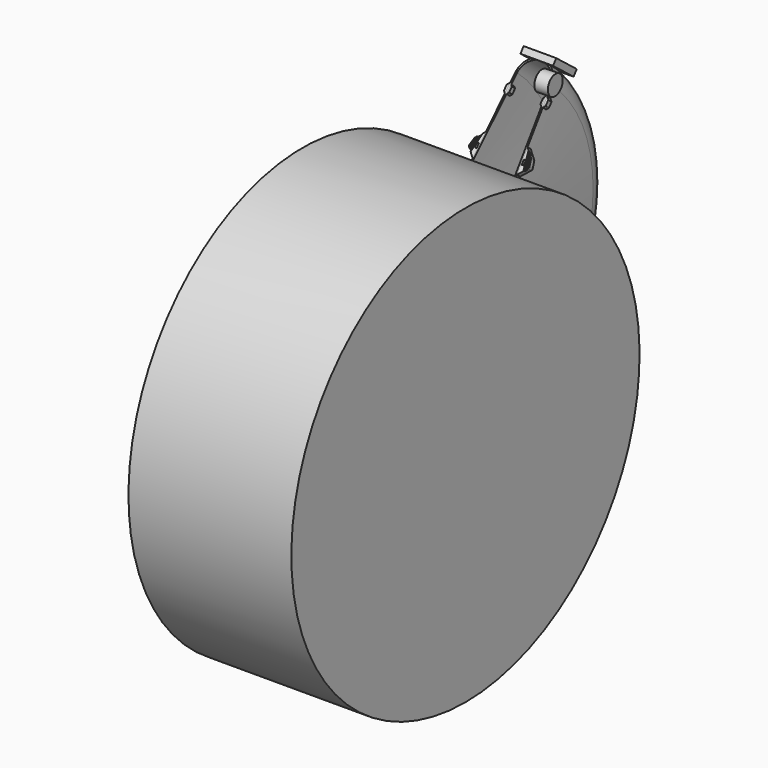
from build123d import *

# Parameters (mm, degrees)
REVOLUTION_ANGLE         = 100
FILLET_R                 = 8
PAD_DEPTH                = 8
POCKET_DEPTH             = 2
CHAMFER_SIZE             = 1
SKETCH005_W              = 3
SKETCH005_H              = 7
POCKET001_DEPTH          = 81.8615815525
POCKET002_DEPTH          = 78.501
FILLET001_R              = 3
FILLET002_R              = 1
CHAMFER001_SIZE          = 1
CHAMFER002_SIZE          = 1
CYLINDER001_R            = 334
CYLINDER001_DEPTH        = 250
CYLINDER_R               = 15
CYLINDER_DEPTH           = 20
CYLINDER_ROLL_ANGLE      = -87.7093899574
CYLINDER_PITCH_ANGLE     = -87.7093899574
CYLINDER_PLACEMENT_ANGLE = 90
BOX_W                    = 50
BOX_H                    = 50
BOX_DEPTH                = 10
BOX_PLACEMENT_ANGLE      = 322


with BuildPart() as body:
    # Sketch → Revolution (revolve, symmetric)
    with BuildSketch(Plane.XY) as revolution_sk:
        with BuildLine():
            ThreePointArc((27.5, 224.008535095), (0, 250), (-27.5, 224.008535095))
            Line((-34.5, 100), (-27.5, 224.008535095))
            Line((-34.5, 100), (-32.5, 100))
            Line((-32.5, 100), (-25.0114058168, 223.77))
            ThreePointArc((25.0114058168, 223.77), (0, 247.3138512729), (-25.0114058168, 223.77))
            Line((25.0114058168, 223.77), (32.5, 100))
            Line((32.5, 100), (34.5, 100))
            Line((34.5, 100), (27.5, 224.008535095))
        make_face()
    revolve(axis=Axis((0, 0, 0), (1, 0, 0)), revolution_arc=REVOLUTION_ANGLE / 2)
    revolve(revolution_sk.sketch, axis=Axis((0, 0, 0), (-1, 0, 0)), revolution_arc=REVOLUTION_ANGLE / 2)

    # Fillet
    fillet_edges = [body.edges().sort_by_distance(p)[0] for p in [
        (33.5, 64.278761, 76.604444),
        (-33.5, 64.278761, 76.604444),
    ]]
    fillet(fillet_edges, radius=FILLET_R)

    # Sketch002 (on Face5 of Fillet) → Pad (new body)
    with BuildSketch(Plane(origin=(0, 0, 0), x_dir=(1, 0, 0), z_dir=(0, -0.7660444431, 0.6427876097))):
        Polygon((-43.3941714588, 132.6975053664), (-46.5, 121.1063954509), (-33.2488189206, 107.8552143715), (-31, 145.091676825), align=None)
        Polygon((43.3941714588, 132.6975053664), (46.5, 121.1063954509), (33.2488189206, 107.8552143715), (31, 145.091676825), align=None)
        Polygon((28, 194.1063954509), (32, 198.1063954509), (32, 206.1063954509), (28, 210.1063954509), (24, 206.1063954509), (24, 198.1063954509), align=None)
        Polygon((-28, 194.1063954509), (-24, 198.1063954509), (-24, 206.1063954509), (-28, 210.1063954509), (-32, 206.1063954509), (-32, 198.1063954509), align=None)
    extrude(amount=-PAD_DEPTH)

    # Sketch003 (on Face47 of Pad) → Pocket (cut)
    with BuildSketch(Plane(origin=(0, 0, 0), x_dir=(1, 0, 0), z_dir=(0, -0.7660444431, 0.6427876097))):
        Polygon((35, 146.8697948557), (45, 97.88), (47.9393876913, 98.48), (37.9393876913, 147.4697948557), align=None)
        Polygon((-47.9393876913, 98.4800000001), (-45, 97.88), (-35, 146.8697948557), (-37.9393876913, 147.4697948558), align=None)
    extrude(amount=-POCKET_DEPTH, mode=Mode.SUBTRACT)

    # Chamfer
    chamfer_edges = [body.edges().sort_by_distance(p)[0] for p in [
        (42.094426, 81.707526, 97.375238),
        (38.89944, 82.126736, 97.874832),
        (-38.89944, 82.126736, 97.874832),
        (-42.094426, 81.707526, 97.375238),
    ]]
    chamfer(chamfer_edges, length=CHAMFER_SIZE)

    # Sketch005 (on Face6 of Chamfer) → Pocket001 (cut, through all)
    with BuildSketch(Plane(origin=(0, 6.128355545, -5.1423008775), x_dir=(-1, 0, 0), z_dir=(0, 0.7660444431, -0.6427876097))):
        with Locations((-36.0477122259, 125.0785244639)):
            Rectangle(SKETCH005_W, SKETCH005_H)
        with Locations((36.0477122259, 125.0785244639)):
            Rectangle(SKETCH005_W, SKETCH005_H)
    extrude(amount=-POCKET001_DEPTH, mode=Mode.SUBTRACT)

    # Sketch006 (on Face54 of Pocket001) → Pocket002 (cut, through all)
    with BuildSketch(Plane(origin=(-32, 0, 0), x_dir=(0, -1, 0), z_dir=(-1, 0, 0))):
        Polygon((-140.4082247347, 149.7281591854), (-136.6575524936, 145.0449489894), (-134.3159473956, 146.92028511), (-138.0666196367, 151.6034953059), align=None)
    extrude(amount=-POCKET002_DEPTH, mode=Mode.SUBTRACT)

    # Fillet001
    fillet001_edges = [body.edges().sort_by_distance(p)[0] for p in [
        (46.5, 80.909868, 90.201731),
        (43.394171, 88.36049, 99.081036),
        (-43.394171, 88.36049, 99.081036),
        (-46.5, 80.909868, 90.201731),
    ]]
    fillet(fillet001_edges, radius=FILLET001_R)

    # Fillet002
    fillet002_edges = [body.edges().sort_by_distance(p)[0] for p in [
        (32, 135.546815, 155.315508),
        (32, 130.404514, 149.187153),
        (-32, 130.404514, 149.187153),
        (-32, 135.546815, 155.315508),
    ]]
    fillet(fillet002_edges, radius=FILLET002_R)

    # Chamfer001
    chamfer001_edges = [body.edges().sort_by_distance(p)[0] for p in [
        (32.998397, 87.343701, 91.646379),
    ]]
    chamfer(chamfer001_edges, length=CHAMFER001_SIZE)

    # Chamfer002
    chamfer002_edges = [body.edges().sort_by_distance(p)[0] for p in [
        (-32.998397, 87.343701, 91.646379),
    ]]
    chamfer(chamfer002_edges, length=CHAMFER002_SIZE)


with BuildPart() as cylinder001:
    # Cylinder001 → Cylinder001 (new body)
    with BuildSketch(Plane(origin=(-100, -174, -159), x_dir=(0, 0, -1), z_dir=(1, 0, 0))):
        Circle(CYLINDER001_R)
    extrude(amount=CYLINDER001_DEPTH)


with BuildPart() as cylinder:
    # Cylinder → Cylinder (new body)
    with BuildSketch(Plane.XY):
        Circle(CYLINDER_R)
    extrude(amount=CYLINDER_DEPTH)


with BuildPart() as cylinder_1:
    # Cylinder roll: moved
    add(cylinder.part.rotate(Axis((0, 0, 0), (1, 0, 0)), CYLINDER_ROLL_ANGLE))


with BuildPart() as cylinder_2:
    # Cylinder pitch: moved
    add(cylinder_1.part.rotate(Axis((0, 0, 0), (0, 1, 0)), CYLINDER_PITCH_ANGLE))


with BuildPart() as cylinder_3:
    # Cylinder placement: moved
    add(cylinder_2.part.moved(Location((35, 142, 175))).rotate(Axis((35, 142, 175), (0, 0, 1)), CYLINDER_PLACEMENT_ANGLE))


with BuildPart() as cube:
    # Box → Box (new body)
    with BuildSketch(Plane.XY):
        with Locations((25, 25)):
            Rectangle(BOX_W, BOX_H)
    extrude(amount=BOX_DEPTH)


with BuildPart() as cube_1:
    # Box placement: moved
    add(cube.part.moved(Location((-28, 154, 192))).rotate(Axis((-28, 154, 192), (1, 0, 0)), BOX_PLACEMENT_ANGLE))


solid = Compound([body.part, cylinder001.part, cylinder_3.part, cube_1.part])
